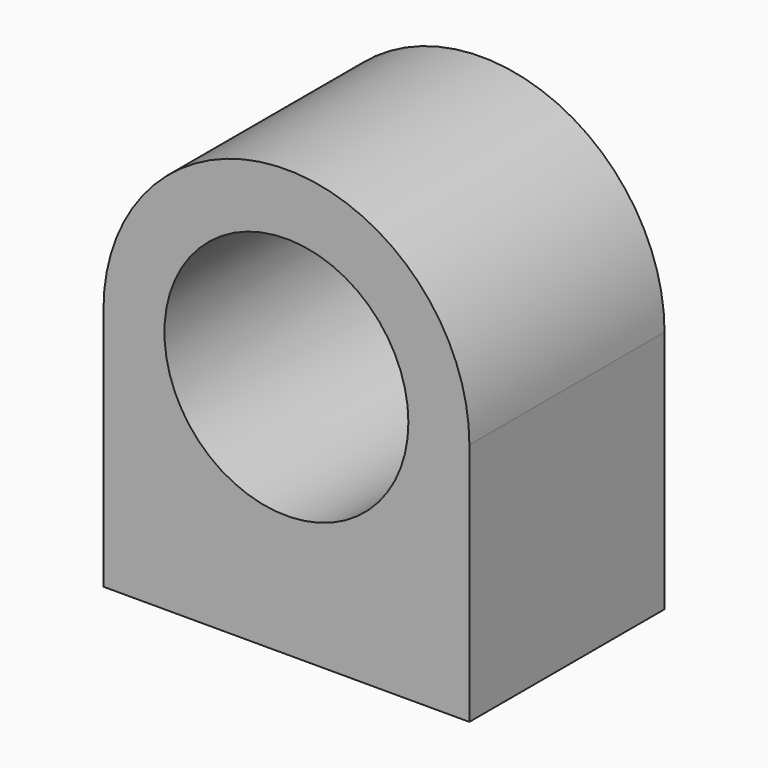
from build123d import *

# Parameters (mm, degrees)
F0_R     = 0.5
F1_DEPTH = 1
F2_R     = 0.125
F3_DEPTH = 0.5
F4_R     = 0.125
F5_DEPTH = 0.5


with BuildPart() as f1:
    # F0 (on Front) → F1 (new body)
    with BuildSketch(Plane.XZ):
        with BuildLine():
            Line((-0.75, 1), (-0.75, 0))
            Line((-0.75, 0), (0.75, 0))
            Line((0.75, 0), (0.75, 1))
            ThreePointArc((0.75, 1), (0, 1.75), (-0.75, 1))
        make_face()
        with Locations((0, 1)):
            Circle(F0_R, mode=Mode.SUBTRACT)
    extrude(amount=F1_DEPTH)

    # F2 (on face) → F3 (cut)
    with BuildSketch(Plane(origin=(0, 0, 0), x_dir=(1, 0, 0), z_dir=(0, 0, -1))):
        with Locations((-0.5, 0.5)):
            Circle(F2_R)
    extrude(amount=-F3_DEPTH, mode=Mode.SUBTRACT)

    # F4 (on face) → F5 (cut)
    with BuildSketch(Plane(origin=(0, 0, 0), x_dir=(1, 0, 0), z_dir=(0, 0, -1))):
        with Locations((0.5, 0.5)):
            Circle(F4_R)
    extrude(amount=-F5_DEPTH, mode=Mode.SUBTRACT)


solid = f1.part
